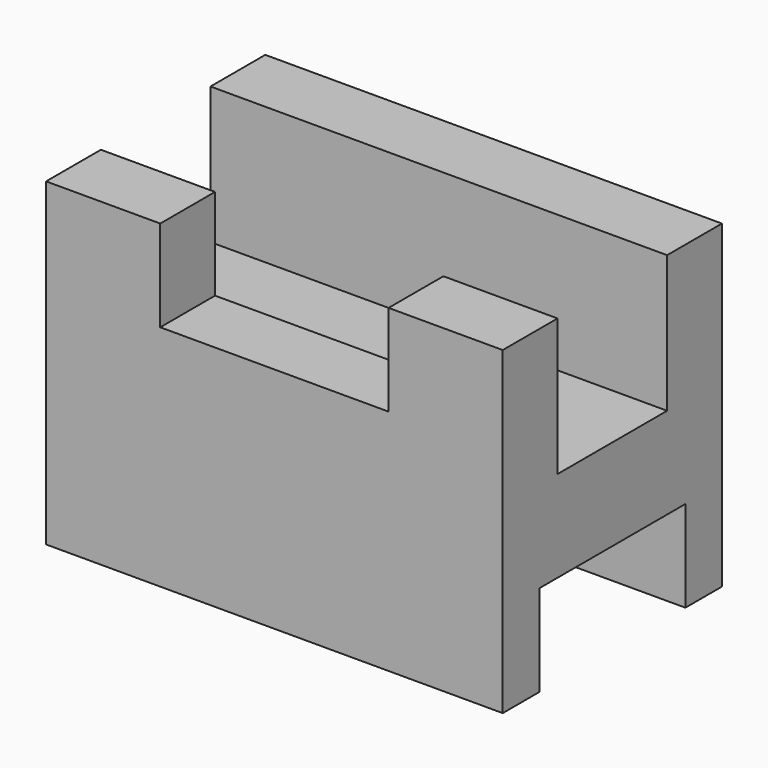
from build123d import *

# Parameters (mm, degrees)
F0_W     = 63.5
F0_H     = 44.45
F1_DEPTH = 38.1
F2_W     = 19.05
F2_H     = 19.05
F2_W_2   = 25.4
F2_H_2   = 12.7
F3_DEPTH = 117.856
F4_W     = 31.75
F4_H     = 12.7
F5_DEPTH = 25.4


with BuildPart() as f1:
    # F0 (on Front) → F1 (new body)
    with BuildSketch(Plane.XZ):
        with Locations((1.093794, 4.034513)):
            Rectangle(F0_W, F0_H)
    extrude(amount=F1_DEPTH)

    # F2 (on face) → F3 (cut)
    with BuildSketch(Plane.YZ.offset(32.843794)):
        with Locations((-19.05, 16.734513)):
            Rectangle(F2_W, F2_H)
        with Locations((-19.05, -11.840487)):
            Rectangle(F2_W_2, F2_H_2)
    extrude(amount=-F3_DEPTH, mode=Mode.SUBTRACT)

    # F4 (on face) → F5 (cut)
    with BuildSketch(Plane.XZ.offset(38.1)):
        with Locations((1.093794, 19.909513)):
            Rectangle(F4_W, F4_H)
    extrude(amount=-F5_DEPTH, mode=Mode.SUBTRACT)


solid = f1.part
